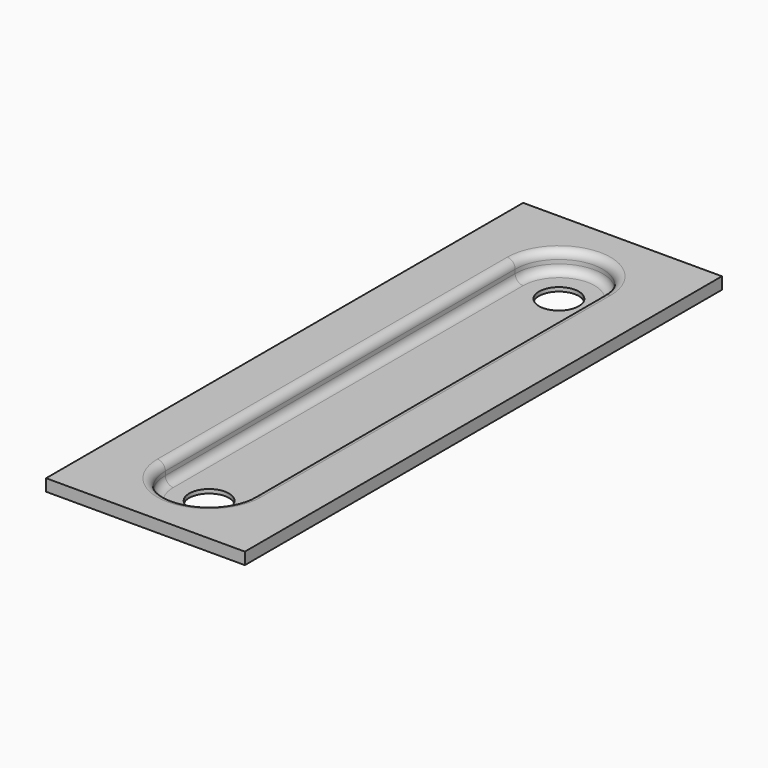
from build123d import *

# Parameters (mm, degrees)
F0_W     = 50
F0_H     = 150
F1_DEPTH = 3
F4_DEPTH = 6
F2_R     = 5
F5_DEPTH = 6.001
F6_DEPTH = 5
F7_R     = 2


with BuildPart() as f1:
    # F0 (on Top) → F1 (new body)
    with BuildSketch(Plane.XY):
        with Locations((25, 75)):
            Rectangle(F0_W, F0_H)
    extrude(amount=F1_DEPTH)

    # F3 (on face) → F4 (join)
    with BuildSketch(Plane.XY.offset(3)):
        with BuildLine():
            Line((37.5, 20), (37.5, 130))
            ThreePointArc((37.5, 130), (25, 142.5), (12.5, 130))
            Line((12.5, 130), (12.5, 20))
            ThreePointArc((12.5, 20), (25, 7.5), (37.5, 20))
        make_face()
        with BuildLine():
            ThreePointArc((36, 20), (25, 9), (14, 20))
            Line((14, 20), (14, 130))
            ThreePointArc((14, 130), (25, 141), (36, 130))
            Line((36, 130), (36, 20))
        make_face(mode=Mode.SUBTRACT)
        with BuildLine():
            Line((14, 130), (14, 20))
            ThreePointArc((14, 20), (25, 9), (36, 20))
            Line((36, 20), (36, 130))
            ThreePointArc((36, 130), (25, 141), (14, 130))
        make_face()
    extrude(amount=-F4_DEPTH)

    # F2 (on face) → F5 (cut, through all)
    with BuildSketch(Plane.XY.offset(3)):
        with Locations((25, 20)):
            Circle(F2_R)
        with Locations((25, 130)):
            Circle(F2_R)
    extrude(amount=-F5_DEPTH, mode=Mode.SUBTRACT)

    # F3 (on face) → F6 (cut)
    with BuildSketch(Plane.XY.offset(3)):
        with BuildLine():
            Line((14, 130), (14, 20))
            ThreePointArc((14, 20), (25, 9), (36, 20))
            Line((36, 20), (36, 130))
            ThreePointArc((36, 130), (25, 141), (14, 130))
        make_face()
    extrude(amount=-F6_DEPTH, mode=Mode.SUBTRACT)

    # F7
    f7_edges = [f1.edges().sort_by_distance(p)[0] for p in [
        (14, 75, 3),
        (14, 75, -2),
    ]]
    fillet(f7_edges, radius=F7_R)


solid = f1.part
